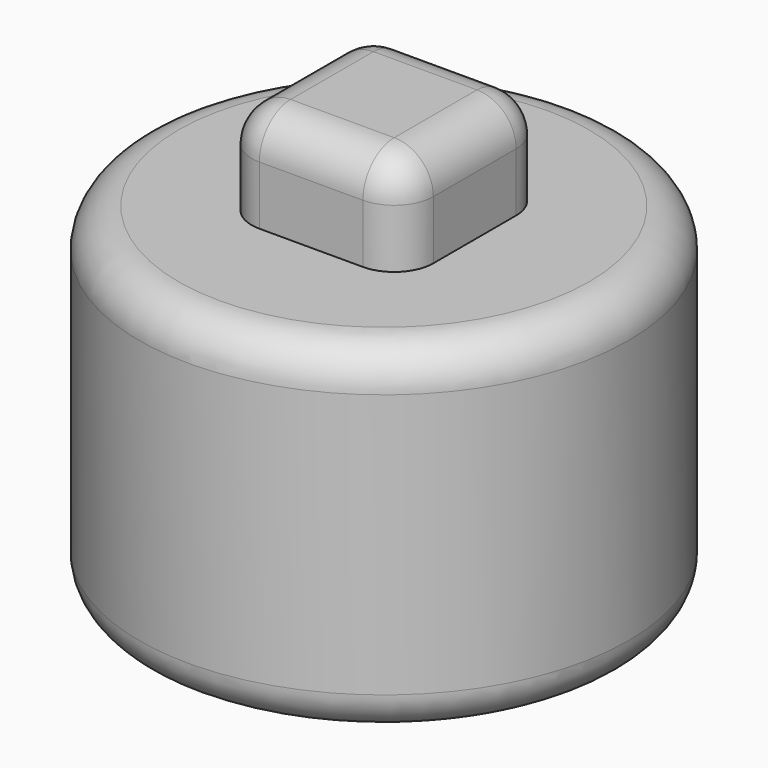
from build123d import *

# Parameters (mm, degrees)
F0_R     = 31.75
F1_DEPTH = 44.45
F2_W     = 23.59742
F2_H     = 23.59742
F3_DEPTH = 12.7
F4_R     = 5.08


with BuildPart() as f1:
    # F0 (on Top) → F1 (new body)
    with BuildSketch(Plane.XY):
        with Locations((-28.482823, 7.650726)):
            Circle(F0_R)
    extrude(amount=F1_DEPTH)

    # F2 (on face) → F3 (join)
    with BuildSketch(Plane.XY.offset(44.45)):
        with Locations((-28.482823, 7.650726)):
            Rectangle(F2_W, F2_H)
    extrude(amount=F3_DEPTH)

    # F4
    f4_edges = [f1.edges().sort_by_distance(p)[0] for p in [
        (-60.232823, 7.650726, 44.45),
        (-60.232823, 7.650726, 0),
        (-16.684113, 7.650726, 57.15),
        (-28.482823, -4.147984, 57.15),
        (-40.281533, 7.650726, 57.15),
        (-28.482823, 19.449436, 57.15),
        (-16.684113, -4.147984, 50.8),
        (-40.281533, -4.147984, 50.8),
        (-16.684113, 19.449436, 50.8),
        (-40.281533, 19.449436, 50.8),
    ]]
    fillet(f4_edges, radius=F4_R)


solid = f1.part
